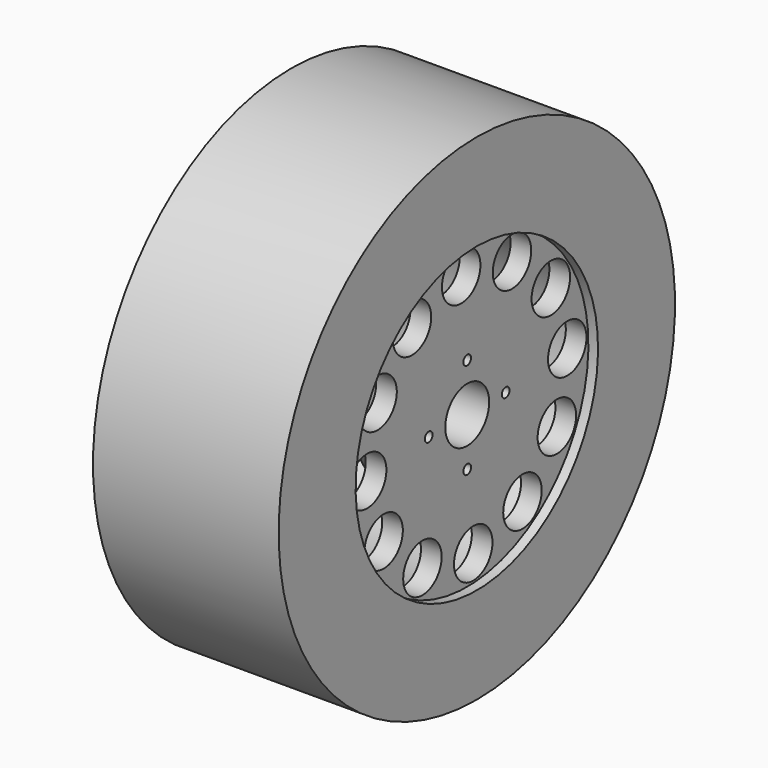
from build123d import *

# Parameters (mm, degrees)
F2_R     = 25
F3_DEPTH = 25
F4_R     = 5
F5_DEPTH = 66.501
F6_SIZE  = 5


with BuildPart() as f1:
    # F0 (on Front) → F1 (revolve)
    with BuildSketch(Plane.XZ):
        Polygon((193, 157.5), (193, 257.5), (0, 257.5), (0, 157.5), (161.5, 157.5), (161.5, 95.207259), (126.5, 75), (126.5, 28.5), (183, 28.5), (183, 157.5), align=None)
    revolve(axis=Axis((48.25, 0, 0), (1, 0, 0)))

    # F2 (on face) → F3 (cut)
    with BuildSketch(Plane(origin=(161.5, 0, 0), x_dir=(0, -1, 0), z_dir=(-1, 0, 0))):
        with Locations((7.845702, 130)):
            Circle(F2_R)
        with Locations((-58.205423, 116.506153)):
            Circle(F2_R)
        with Locations((-108.660452, 71.794577)):
            Circle(F2_R)
        with Locations((-130, 7.845702)):
            Circle(F2_R)
        with Locations((-116.506153, -58.205423)):
            Circle(F2_R)
        with Locations((-71.794577, -108.660452)):
            Circle(F2_R)
        with Locations((-7.845702, -130)):
            Circle(F2_R)
        with Locations((58.205423, -116.506153)):
            Circle(F2_R)
        with Locations((108.660452, -71.794577)):
            Circle(F2_R)
        with Locations((130, -7.845702)):
            Circle(F2_R)
        with Locations((116.506153, 58.205423)):
            Circle(F2_R)
        with Locations((71.794577, 108.660452)):
            Circle(F2_R)
    extrude(amount=-F3_DEPTH, mode=Mode.SUBTRACT)

    # F4 (on face) → F5 (cut, through all)
    with BuildSketch(Plane(origin=(126.5, 0, 0), x_dir=(0, -1, 0), z_dir=(-1, 0, 0))):
        with Locations((0, 50)):
            Circle(F4_R)
        with Locations((-50, 0)):
            Circle(F4_R)
        with Locations((0, -50)):
            Circle(F4_R)
        with Locations((50, 0)):
            Circle(F4_R)
    extrude(amount=-F5_DEPTH, mode=Mode.SUBTRACT)

    # F6
    f6_edges = [f1.edges().sort_by_distance(p)[0] for p in [
        (126.5, 0, -28.5),
    ]]
    chamfer(f6_edges, length=F6_SIZE)


solid = f1.part
